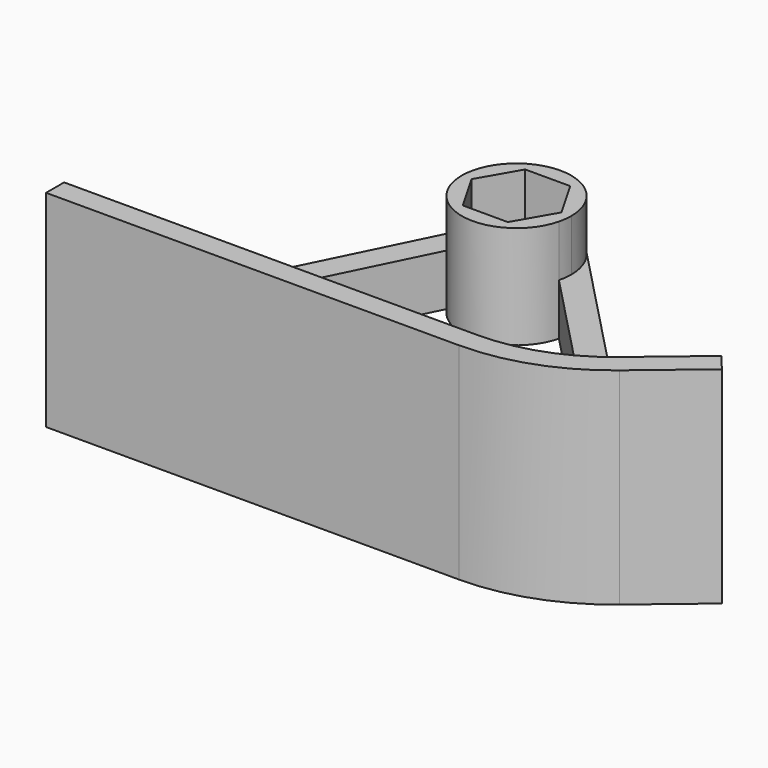
from build123d import *

# Parameters (mm, degrees)
F1_DEPTH = 16
F2_R     = 2.0625
F3_DEPTH = 8
F5_DEPTH = 8


with BuildPart() as f1:
    # F0 (on Top) → F1 (new body, symmetric)
    with BuildSketch(Plane.XY):
        with BuildLine():
            Line((-45, 3.500000108), (-45, 0))
            Line((-45, 0), (19.080892972, 0))
            ThreePointArc((19.080892972, 0), (29.3414972718, 1.8092213764), (38.3645212626, 7.0186667064))
            Line((38.3645212626, 7.0186667064), (47.8763038889, 15))
            Line((47.8763038889, 15), (45.6265471856, 17.6811556337))
            Line((45.6265471856, 17.6811556337), (36.1147645593, 9.6998223401))
            ThreePointArc((36.1147645593, 9.6998223401), (28.1444267332, 5.0981456507), (19.080892972, 3.500000108))
            Line((19.080892972, 3.500000108), (-45, 3.500000108))
        make_face()
    extrude(amount=F1_DEPTH, both=True)

    # F2 (on Top) → F3 (join)
    with BuildSketch(Plane.XY):
        with BuildLine():
            Line((-7.6244007781, 38.7574609479), (-25, 3.500000108))
            Line((-25, 3.500000108), (-20.5406331606, 3.500000108))
            Line((-20.5406331606, 3.500000108), (-7.2241458503, 30.5209692194))
            ThreePointArc((-7.2241458503, 30.5209692194), (-8.4899813452, 34.5874266639), (-7.6244007781, 38.7574609479))
        make_face()
        with BuildLine():
            ThreePointArc((6.1274973095, 40.8909911493), (-1.3031376668, 43.3995138086), (-7.6244007781, 38.7574609479))
            ThreePointArc((-7.6244007781, 38.7574609479), (-8.4899813452, 34.5874266639), (-7.2241458503, 30.5209692194))
            ThreePointArc((-7.2241458503, 30.5209692194), (1.3031376668, 26.6004861914), (8.2416799056, 32.9204057285))
            ThreePointArc((8.2416799056, 32.9204057285), (8.4351727664, 33.952211662), (8.5, 35))
            ThreePointArc((8.5, 35), (7.8845966013, 38.1753954769), (6.1274973095, 40.8909911493))
        make_face()
        with Locations((0, 35)):
            Circle(F2_R, mode=Mode.SUBTRACT)
        with BuildLine():
            Line((36.1147645593, 9.6998223401), (6.1274973095, 40.8909911493))
            ThreePointArc((6.1274973095, 40.8909911493), (7.8845966013, 38.1753954769), (8.5, 35))
            ThreePointArc((8.5, 35), (8.4351727664, 33.952211662), (8.2416799056, 32.9204057285))
            Line((8.2416799056, 32.9204057285), (32.8294657363, 7.3454918124))
            ThreePointArc((32.8294657363, 7.3454918124), (34.517066012, 8.45993138), (36.1147645593, 9.6998223401))
        make_face()
    extrude(amount=F3_DEPTH)

    # F4 (on face) → F5 (join)
    with BuildSketch(Plane.XY.offset(8)):
        with BuildLine():
            ThreePointArc((8.2416799056, 32.9204057285), (8.4351727664, 33.952211662), (8.5, 35))
            ThreePointArc((8.5, 35), (7.8845966013, 38.1753954769), (6.1274973095, 40.8909911493))
            ThreePointArc((6.1274973095, 40.8909911493), (-1.3031376668, 43.3995138086), (-7.6244007781, 38.7574609479))
            ThreePointArc((-7.6244007781, 38.7574609479), (-8.4899813452, 34.5874266639), (-7.2241458503, 30.5209692194))
            ThreePointArc((-7.2241458503, 30.5209692194), (1.3031376668, 26.6004861914), (8.2416799056, 32.9204057285))
        make_face()
        Polygon((-6.9859382572, 35), (-3.4929691286, 41.05), (3.4929691286, 41.05), (6.9859382572, 35), (3.4929691286, 28.95), (-3.4929691286, 28.95), align=None, mode=Mode.SUBTRACT)
    extrude(amount=F5_DEPTH)


solid = f1.part
